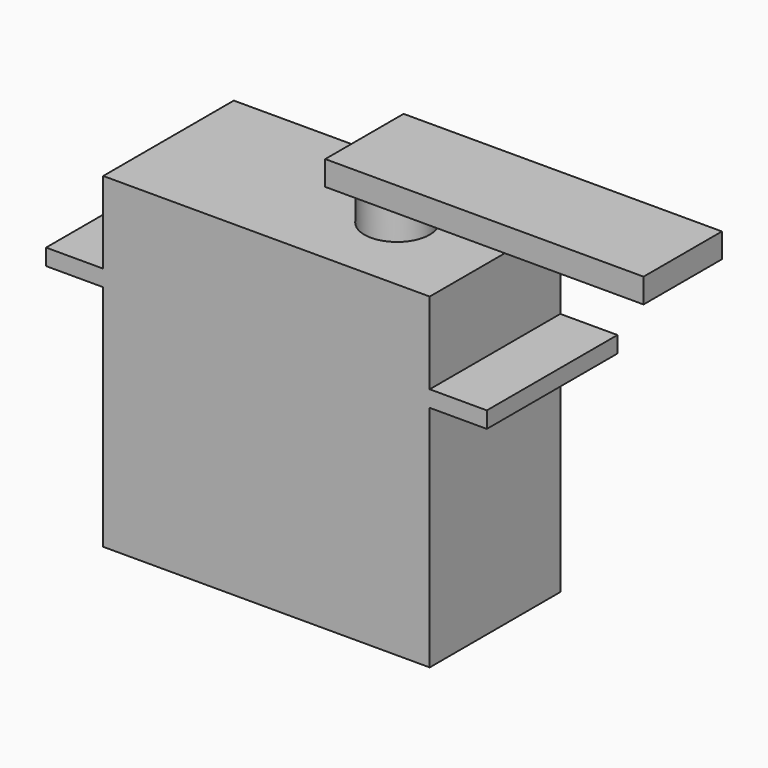
from build123d import *

# Parameters (mm, degrees)
F0_W     = 7
F0_H     = 2
F1_DEPTH = 10
F0_W_2   = 4
F0_H_2   = 5
F0_H_3   = 3
F3_DEPTH = 6


with BuildPart() as f1:
    # F0 (on Front) → F1 (new body, symmetric)
    with BuildSketch(Plane.XZ):
        Polygon((-22.17742, -20), (17.82258, -20), (17.82258, 8), (17.82258, 10), (17.82258, 20), (9.82258, 20), (5.82258, 20), (-22.17742, 20), (-22.17742, 10), (-22.17742, 8), align=None)
        with Locations((-25.67742, 9)):
            Rectangle(F0_W, F0_H)
        with Locations((21.32258, 9)):
            Rectangle(F0_W, F0_H)
    extrude(amount=F1_DEPTH, both=True)

    # F0 (on Front) → F2 (revolve)
    with BuildSketch(Plane.XZ):
        with Locations((7.82258, 22.5)):
            Rectangle(F0_W_2, F0_H_2)
    revolve(axis=Axis((5.82258, 0, 22.5), (0, 0, 1)))

    # F0 (on Front) → F3 (join, symmetric)
    with BuildSketch(Plane.XZ):
        with Locations((3.82258, 26.5)):
            Rectangle(F0_W_2, F0_H_3)
        Polygon((5.82258, 25), (9.82258, 25), (40.82258, 25), (40.82258, 28), (5.82258, 28), align=None)
    extrude(amount=F3_DEPTH, both=True)


solid = f1.part
